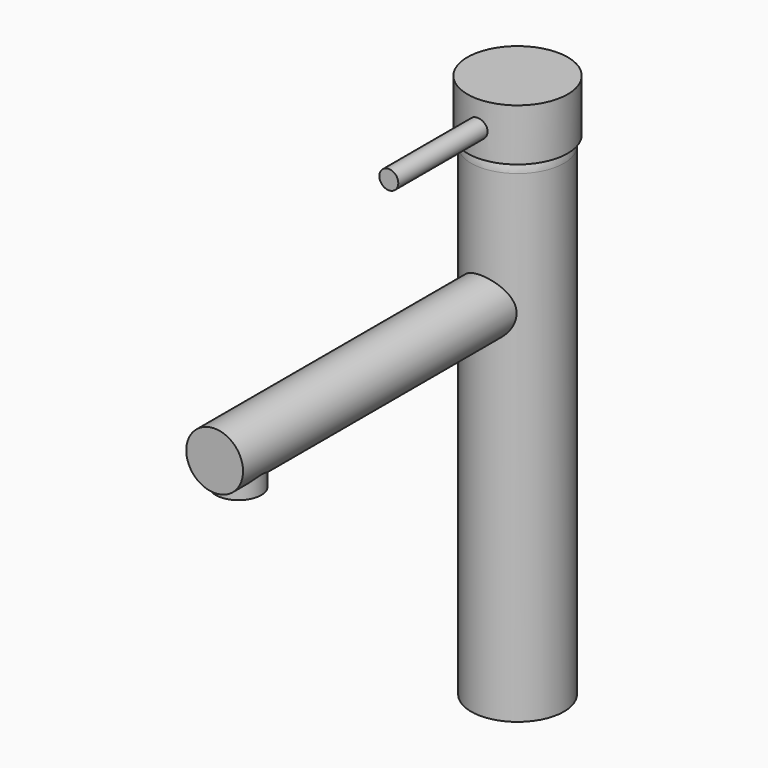
from build123d import *

# Parameters (mm, degrees)
F0_R      = 24.5
F1_DEPTH  = 255
F2_R      = 24.5
F3_DEPTH  = 14
F4_R      = 14
F6_R      = 26.5
F7_DEPTH  = 13.75
F8_R      = 5
F9_DEPTH  = 85
F10_R     = 15
F11_DEPTH = 200
F13_R     = 12
F14_DEPTH = 18.5


with BuildPart() as f1:
    # F0 (on Top) → F1 (new body)
    with BuildSketch(Plane.XY):
        Circle(F0_R)
    extrude(amount=F1_DEPTH)

    # F2 (on face) → F3 (join)
    with BuildSketch(Plane.XY.offset(255)):
        Circle(F2_R)
    extrude(amount=F3_DEPTH)

    # F4
    f4_edges = [f1.edges().sort_by_distance(p)[0] for p in [
        (-24.5, 0, 269),
    ]]
    fillet(f4_edges, radius=F4_R)

    # F6 (on offset) → F7 (join, symmetric)
    with BuildSketch(Plane.XY.offset(274)):
        Circle(F6_R)
    extrude(amount=F7_DEPTH, both=True)

    # F8 (on Front) → F9 (join)
    with BuildSketch(Plane.XZ):
        with Locations((0, 274)):
            Circle(F8_R)
    extrude(amount=F9_DEPTH)

    # F10 (on Front) → F11 (join)
    with BuildSketch(Plane.XZ):
        with Locations((0, 190)):
            Circle(F10_R)
    extrude(amount=F11_DEPTH)

    # F13 (on offset) → F14 (join)
    with BuildSketch(Plane.XY.offset(190)):
        with Locations((0, -184.25)):
            Circle(F13_R)
    extrude(amount=-F14_DEPTH)


solid = f1.part
